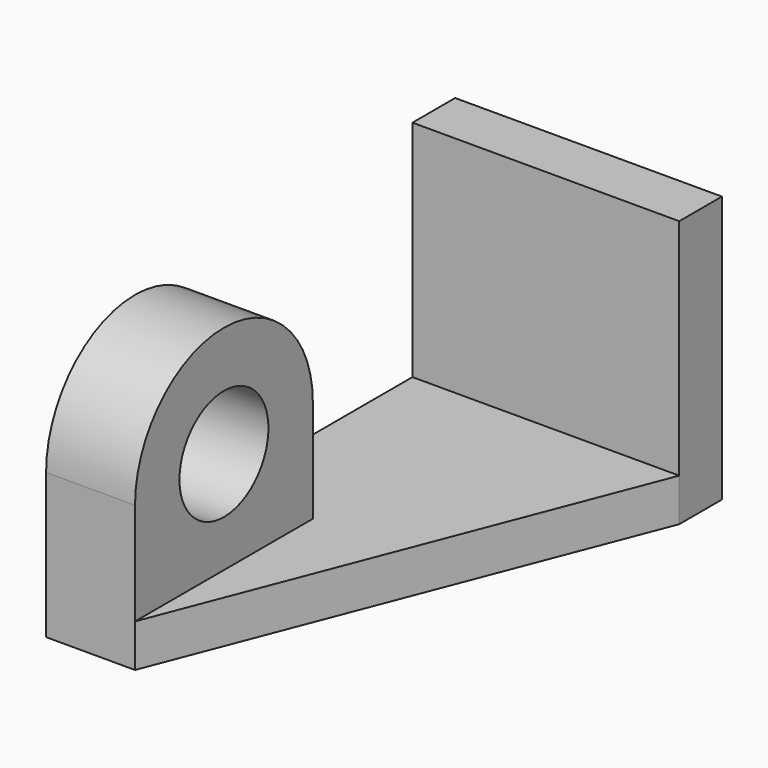
from build123d import *

# Parameters (mm, degrees)
F0_W      = 1524
F0_H      = 1524
F1_DEPTH  = 304.8
F2_W      = 1524
F2_H      = 244.3472892046
F3_DEPTH  = 2616.2
F4_W      = 508
F4_H      = 1270
F5_DEPTH  = 584.2
F7_DEPTH  = 508
F9_DEPTH  = 508
F11_DEPTH = 304.8


with BuildPart() as f1:
    # F0 (on Front) → F1 (new body)
    with BuildSketch(Plane.XZ):
        with Locations((-762, 762)):
            Rectangle(F0_W, F0_H)
    extrude(amount=F1_DEPTH)

    # F2 (on face) → F3 (join)
    with BuildSketch(Plane.XZ.offset(304.8)):
        with Locations((-762, 122.1736446023)):
            Rectangle(F2_W, F2_H)
    extrude(amount=F3_DEPTH)

    # F4 (on face) → F5 (join)
    with BuildSketch(Plane.XY.offset(244.3472892046)):
        with Locations((-1270, -2286)):
            Rectangle(F4_W, F4_H)
    extrude(amount=F5_DEPTH)

    # F6 (on face) → F7 (join)
    with BuildSketch(Plane.YZ.offset(-1016)):
        with BuildLine():
            Line((-2921, 828.5472892046), (-1651, 828.5472892046))
            ThreePointArc((-1651, 828.5472892046), (-2286, 1463.5472892046), (-2921, 828.5472892046))
        make_face()
        with BuildLine():
            ThreePointArc((-2534.8681578667, 244.3472892046), (-2286, 193.5472892046), (-2037.1318421333, 244.3472892046))
            Line((-2037.1318421333, 244.3472892046), (-2534.8681578667, 244.3472892046))
        make_face()
    extrude(amount=-F7_DEPTH)

    # F8 (on face) → F9 (cut)
    with BuildSketch(Plane.YZ.offset(-1016)):
        with BuildLine():
            Line((-2603.5, 828.5472892046), (-1968.5, 828.5472892046))
            ThreePointArc((-1968.5, 828.5472892046), (-2286, 1146.0472892046), (-2603.5, 828.5472892046))
        make_face()
        with BuildLine():
            ThreePointArc((-2603.5, 828.5472892046), (-2286, 511.0472892046), (-1968.5, 828.5472892046))
            Line((-1968.5, 828.5472892046), (-2603.5, 828.5472892046))
        make_face()
    extrude(amount=-F9_DEPTH, mode=Mode.SUBTRACT)

    # F10 (on face) → F11 (cut)
    with BuildSketch(Plane.XY.offset(244.3472892046)):
        Polygon((0, -304.8), (-1016, -2921), (0, -2921), align=None)
    extrude(amount=-F11_DEPTH, mode=Mode.SUBTRACT)


solid = f1.part
